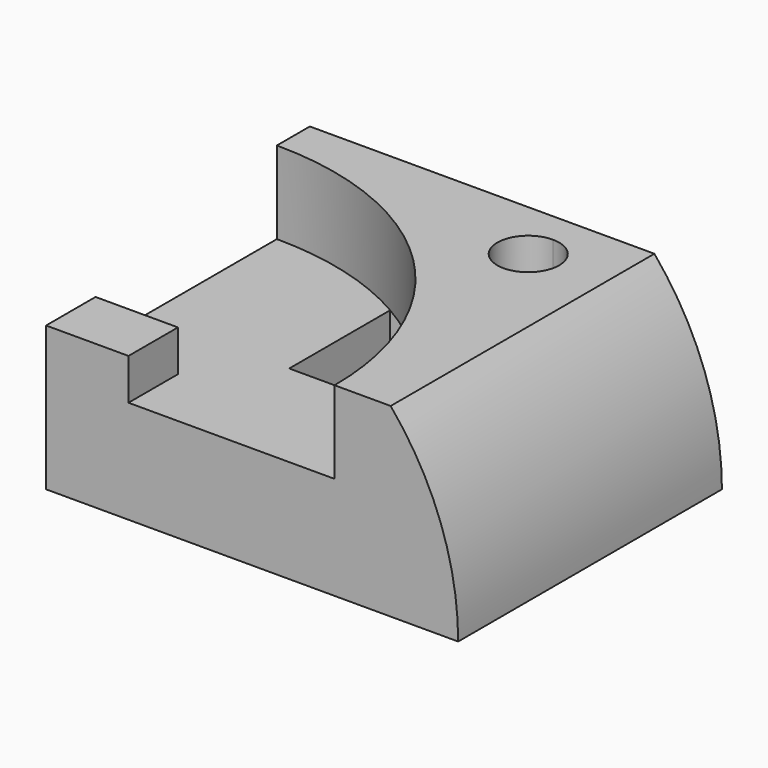
from build123d import *

# Parameters (mm, degrees)
F0_W      = 100
F0_H      = 80
F1_DEPTH  = 45
F3_DEPTH  = 30
F4_R      = 70
F5_DEPTH  = 20
F6_W      = 20
F6_H      = 15
F7_DEPTH  = 10
F9_DEPTH  = 25
F11_DEPTH = 80


with BuildPart() as f1:
    # F0 (on Top) → F1 (new body)
    with BuildSketch(Plane.XY):
        with Locations((50, 40)):
            Rectangle(F0_W, F0_H)
    extrude(amount=F1_DEPTH)

    # F2 (on face) → F3 (cut)
    with BuildSketch(Plane.XY.offset(45)):
        with BuildLine():
            ThreePointArc((72.5, 65), (70.303301, 70.303301), (65, 72.5))
            ThreePointArc((65, 72.5), (59.696699, 59.696699), (72.5, 65))
        make_face()
    extrude(amount=-F3_DEPTH, mode=Mode.SUBTRACT)

    # F4 (on face) → F5 (cut)
    with BuildSketch(Plane.XY.offset(45)):
        Circle(F4_R)
    extrude(amount=-F5_DEPTH, mode=Mode.SUBTRACT)

    # F6 (on face) → F7 (join)
    with BuildSketch(Plane.XY.offset(25)):
        with Locations((10, 7.5)):
            Rectangle(F6_W, F6_H)
    extrude(amount=F7_DEPTH)

    # F8 (on face) → F9 (cut, through all)
    with BuildSketch(Plane.XY.offset(25)):
        Polygon((35, 60.621778), (35, 30), (63.245553, 30), (63.245553, 60.622), align=None)
        Polygon((35, 60.621778), (35, 30), (63.245553, 30), (63.245553, 60.622), align=None)
    extrude(amount=-F9_DEPTH, mode=Mode.SUBTRACT)

    # F10 (on face) → F11 (cut, through all)
    with BuildSketch(Plane.XZ):
        with BuildLine():
            ThreePointArc((83.619026, 45), (95.777397, 23.944395), (100, 0))
            Line((100, 0), (100, 45))
            Line((100, 45), (83.619026, 45))
        make_face()
    extrude(amount=-F11_DEPTH, mode=Mode.SUBTRACT)


solid = f1.part
